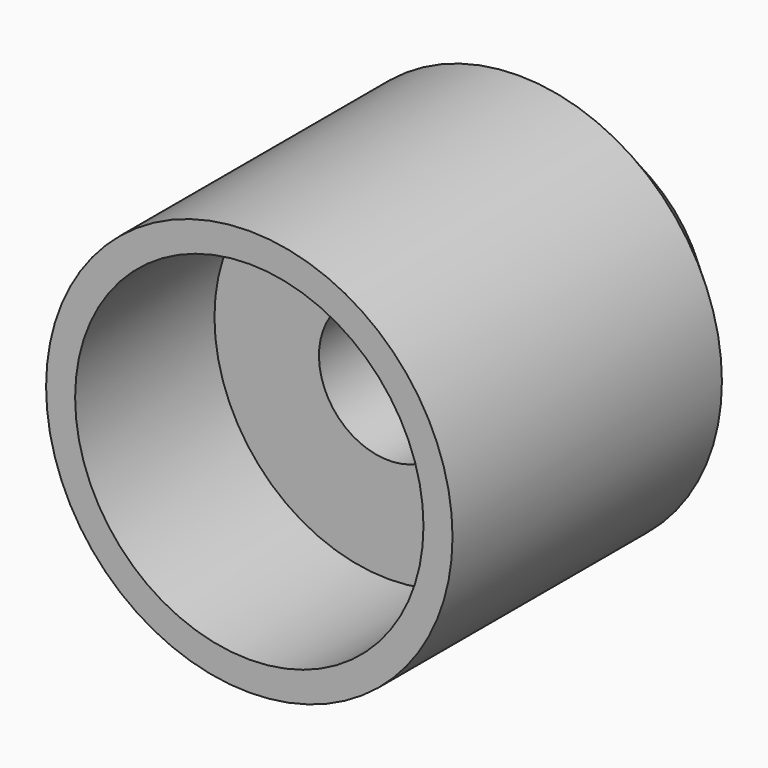
from build123d import *

# Parameters (mm, degrees)
F2_SIZE = 6


with BuildPart() as f1:
    # F0 (on Right) → F1 (revolve)
    with BuildSketch(Plane.YZ):
        Polygon((15, 6), (35, 6), (35, 17.5), (0, 17.5), (0, 15), (15, 15), align=None)
    revolve(axis=Axis((0, 7.5, 0), (0, 1, 0)))

    # F2
    f2_edges = [f1.edges().sort_by_distance(p)[0] for p in [
        (0, 35, -17.5),
    ]]
    chamfer(f2_edges, length=F2_SIZE)


solid = f1.part
